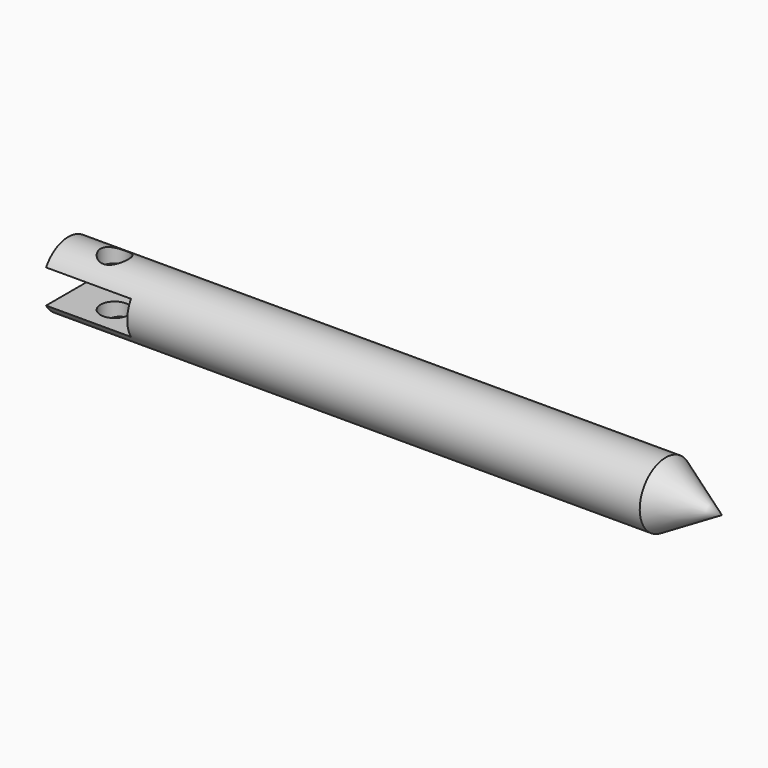
from build123d import *

# Parameters (mm, degrees)
F2_W     = 16.304351
F2_H     = 3.93052
F3_DEPTH = 25.4
F4_R     = 1.646658
F5_DEPTH = 25.4


with BuildPart() as f1:
    # F0 (on Front) → F1 (revolve)
    with BuildSketch(Plane.XZ):
        Polygon((-52.007179, 3.804098), (-52.007179, 0), (24.581712, 0), (17.992821, 3.804098), align=None)
    revolve(axis=Axis((-13.712734, 0, 0), (1, 0, 0)))

    # F2 (on Front) → F3 (cut, symmetric)
    with BuildSketch(Plane.XZ):
        with Locations((-50.214119, 0)):
            Rectangle(F2_W, F2_H)
    extrude(amount=F3_DEPTH, both=True, mode=Mode.SUBTRACT)

    # F4 (on Top) → F5 (cut, symmetric)
    with BuildSketch(Plane.XY):
        with Locations((-46.583418, 0)):
            Circle(F4_R)
    extrude(amount=F5_DEPTH, both=True, mode=Mode.SUBTRACT)


solid = f1.part
